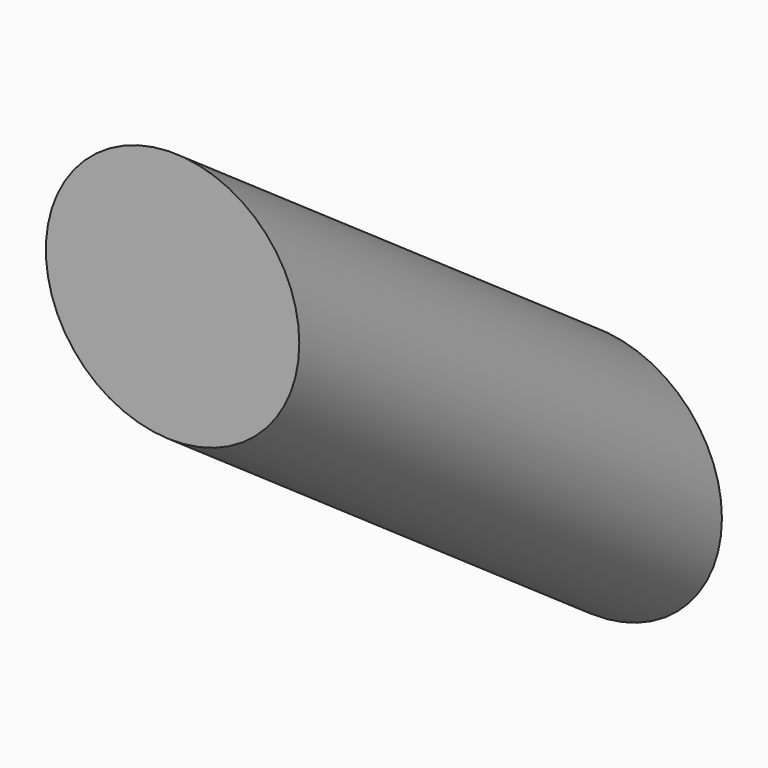
from build123d import *

# Parameters (mm, degrees)
F0_R = 48.670315


with BuildPart() as f2:
    # F2: sweep along a path in F1
    with BuildLine(Plane.YZ) as f2_path:
        Line((0, 0), (-202.88536, 141.625121))
    # F0 (on Front) → F2 (sweep)
    with BuildSketch(Plane.XZ):
        Circle(F0_R)
    sweep(path=f2_path.line)


solid = f2.part
